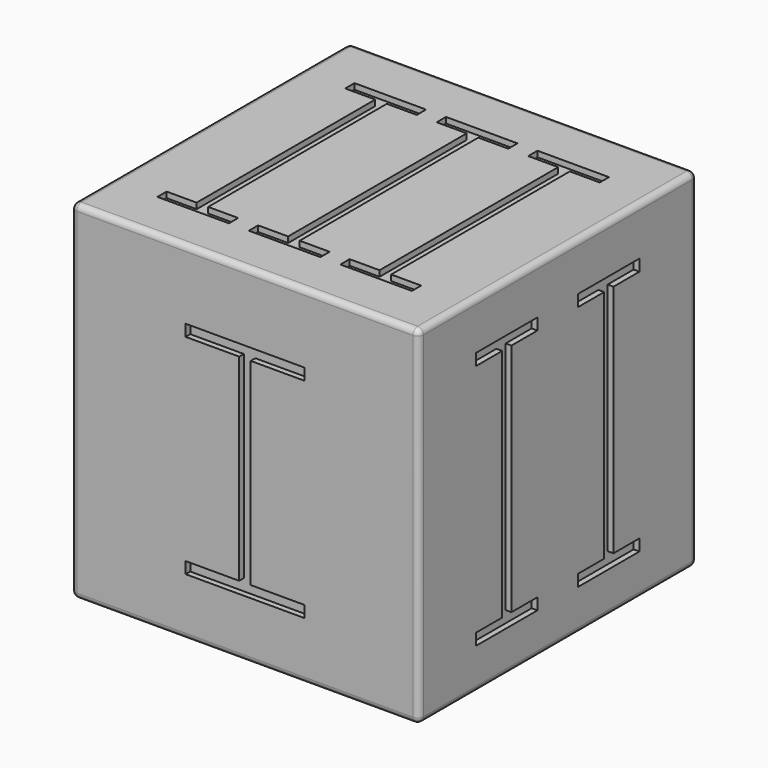
from build123d import *

# Parameters (mm, degrees)
F0_W      = 76.2
F0_H      = 76.2
F1_DEPTH  = 38.1
F2_W      = 11.73516
F2_H      = 2.54
F3_DEPTH  = 1.27
F5_DEPTH  = 1.27
F7_DEPTH  = 1.27
F9_DEPTH  = 1.27
F11_DEPTH = 1.27
F13_DEPTH = 1.27
F14_R     = 1.27


with BuildPart() as f1:
    # F0 (on Top) → F1 (new body, symmetric)
    with BuildSketch(Plane.XY):
        Rectangle(F0_W, F0_H)
    extrude(amount=F1_DEPTH, both=True)

    # F2 (on face) → F3 (cut, symmetric)
    with BuildSketch(Plane.XZ.offset(38.1)):
        with Locations((-7.13758, 21.63039)):
            Rectangle(F2_W, F2_H)
        Polygon((0, 22.90039), (-1.27, 22.90039), (-1.27, 20.36039), (0, 20.36039), (1.27, 20.36039), (1.27, 22.90039), align=None)
        Polygon((0, 20.36039), (-1.27, 20.36039), (-1.27, 0), (-1.27, -22.90039), (0, -22.90039), (1.27, -22.90039), (1.27, 0), (1.27, 20.36039), align=None)
        with Locations((7.13758, 21.63039)):
            Rectangle(F2_W, F2_H)
        Polygon((0, -22.90039), (-1.27, -22.90039), (-13.00516, -22.90039), (-13.00516, -25.44039), (0, -25.44039), (13.00516, -25.44039), (13.00516, -22.90039), (1.27, -22.90039), align=None)
    extrude(amount=F3_DEPTH, both=True, mode=Mode.SUBTRACT)

    # F4 (on face) → F5 (cut, symmetric)
    with BuildSketch(Plane(origin=(0, 38.1, 0), x_dir=(-1, 0, 0), z_dir=(0, 1, 0))):
        Polygon((5.588, 26.286197), (5.588, 23.746197), (10.960088, 23.746197), (12.230088, 23.746197), (13.500088, 23.746197), (19.957788, 23.746197), (19.957788, 26.286197), (12.230088, 26.286197), align=None)
        Polygon((12.230088, 23.746197), (10.960088, 23.746197), (10.960088, -21.1963), (12.230088, -21.1963), (13.500088, -21.1963), (13.500088, 23.746197), align=None)
        Polygon((12.230088, -21.1963), (10.960088, -21.1963), (5.588, -21.1963), (5.588, -23.7363), (12.230088, -23.7363), (19.957788, -23.7363), (19.957788, -21.1963), (13.500088, -21.1963), align=None)
        Polygon((-7.667548, 26.286197), (-14.804196, -10.425624), (-21.940843, 26.286197), (-24.528392, 26.286197), (-14.804196, -23.7363), (-5.08, 26.286197), align=None)
    extrude(amount=F5_DEPTH, both=True, mode=Mode.SUBTRACT)

    # F6 (on face) → F7 (cut, symmetric)
    with BuildSketch(Plane(origin=(-38.1, 0, 0), x_dir=(0, -1, 0), z_dir=(-1, 0, 0))):
        Polygon((-14.887291, 25.654), (0, -25.721655), (14.887291, 25.654), (12.2428, 25.654), (0, -16.595586), (-12.2428, 25.654), align=None)
    extrude(amount=F7_DEPTH, both=True, mode=Mode.SUBTRACT)

    # F8 (on face) → F9 (cut, symmetric)
    with BuildSketch(Plane.YZ.offset(38.1)):
        Polygon((-22.352, 27.513674), (-22.352, 24.973674), (-15.24, 24.973674), (-13.97, 24.973674), (-12.7, 24.973674), (-5.588, 24.973674), (-5.588, 27.513674), (-13.97, 27.513674), align=None)
        Polygon((-13.97, 24.973674), (-15.24, 24.973674), (-15.24, -26.48152), (-13.97, -26.48152), (-12.7, -26.48152), (-12.7, 24.973674), align=None)
        Polygon((-13.97, -26.48152), (-15.24, -26.48152), (-22.352, -26.48152), (-22.352, -29.02152), (-13.97, -29.02152), (-5.588, -29.02152), (-5.588, -26.48152), (-12.7, -26.48152), align=None)
        Polygon((13.97, 24.973674), (12.7, 24.973674), (12.7, -26.48152), (13.97, -26.48152), (15.24, -26.48152), (15.24, 24.973674), align=None)
        Polygon((5.588, 24.973674), (12.7, 24.973674), (13.97, 24.973674), (15.24, 24.973674), (22.352, 24.973674), (22.352, 27.513674), (13.97, 27.513674), (5.588, 27.513674), align=None)
        Polygon((13.97, -26.48152), (12.7, -26.48152), (5.588, -26.48152), (5.588, -29.02152), (13.97, -29.02152), (22.352, -29.02152), (22.352, -26.48152), (15.24, -26.48152), align=None)
    extrude(amount=F9_DEPTH, both=True, mode=Mode.SUBTRACT)

    # F10 (on face) → F11 (cut, symmetric)
    with BuildSketch(Plane(origin=(0, 0, -38.1), x_dir=(1, 0, 0), z_dir=(0, 0, -1))):
        Polygon((-22.352, 25.81735), (-22.352, 23.27735), (-15.24, 23.27735), (-13.97, 23.27735), (-12.7, 23.27735), (-5.588, 23.27735), (-5.588, 25.81735), (-13.97, 25.81735), align=None)
        Polygon((-13.97, 23.27735), (-15.24, 23.27735), (-15.24, -23.1902), (-13.97, -23.1902), (-12.7, -23.1902), (-12.7, 23.27735), align=None)
        Polygon((-13.97, -23.1902), (-15.24, -23.1902), (-22.352, -23.1902), (-22.352, -25.7302), (-13.97, -25.7302), (-5.588, -25.7302), (-5.588, -23.1902), (-12.7, -23.1902), align=None)
        Polygon((5.08, 25.81735), (16.829143, -25.7302), (28.578286, 25.81735), (25.973143, 25.81735), (16.829143, -14.300538), (7.685143, 25.81735), align=None)
    extrude(amount=F11_DEPTH, both=True, mode=Mode.SUBTRACT)

    # F12 (on face) → F13 (cut, symmetric)
    with BuildSketch(Plane.XY.offset(38.1)):
        Polygon((27.891114, -27.228153), (27.891114, -24.688153), (21.323074, -24.688153), (20.053074, -24.688153), (18.783074, -24.688153), (12.215033, -24.688153), (12.215033, -27.228153), (20.053074, -27.228153), align=None)
        Polygon((20.053074, -24.688153), (21.323074, -24.688153), (21.323074, 24.24637), (20.053074, 24.24637), (18.783074, 24.24637), (18.783074, -24.688153), align=None)
        Polygon((20.053074, 24.24637), (21.323074, 24.24637), (27.891114, 24.24637), (27.891114, 26.78637), (20.053074, 26.78637), (12.215033, 26.78637), (12.215033, 24.24637), (18.783074, 24.24637), align=None)
        Polygon((7.83804, -27.228153), (7.83804, -24.688153), (1.27, -24.688153), (0, -24.688153), (-1.27, -24.688153), (-7.83804, -24.688153), (-7.83804, -27.228153), (-0.004473, -27.228153), (0.004473, -27.228153), align=None)
        Polygon((0, -24.688153), (1.27, -24.688153), (1.27, 24.24637), (0, 24.24637), (-1.27, 24.24637), (-1.27, -24.688153), align=None)
        Polygon((0, 24.24637), (1.27, 24.24637), (7.83804, 24.24637), (7.83804, 26.78637), (0, 26.78637), (-7.83804, 26.78637), (-7.83804, 24.24637), (-1.27, 24.24637), align=None)
        Polygon((-20.053074, -27.228153), (-12.215033, -27.228153), (-12.215033, -24.688153), (-18.783074, -24.688153), (-20.053074, -24.688153), (-21.323074, -24.688153), (-27.891114, -24.688153), (-27.891114, -27.228153), align=None)
        Polygon((-20.053074, -24.688153), (-18.783074, -24.688153), (-18.783074, 24.24637), (-20.053074, 24.24637), (-21.323074, 24.24637), (-21.323074, -24.688153), align=None)
        Polygon((-20.053074, 24.24637), (-18.783074, 24.24637), (-12.215033, 24.24637), (-12.215033, 26.78637), (-20.053074, 26.78637), (-27.891114, 26.78637), (-27.891114, 24.24637), (-21.323074, 24.24637), align=None)
    extrude(amount=F13_DEPTH, both=True, mode=Mode.SUBTRACT)

    # F14
    f14_edges = [f1.edges().sort_by_distance(p)[0] for p in [
        (38.1, 0, 38.1),
        (0, -38.1, 38.1),
        (-38.1, 0, 38.1),
        (0, 38.1, 38.1),
        (-38.1, -38.1, 0),
        (0, -38.1, -38.1),
        (38.1, -38.1, 0),
        (-38.1, 0, -38.1),
        (-38.1, 38.1, 0),
        (38.1, 38.1, 0),
        (0, 38.1, -38.1),
        (38.1, 0, -38.1),
    ]]
    fillet(f14_edges, radius=F14_R)


solid = f1.part
